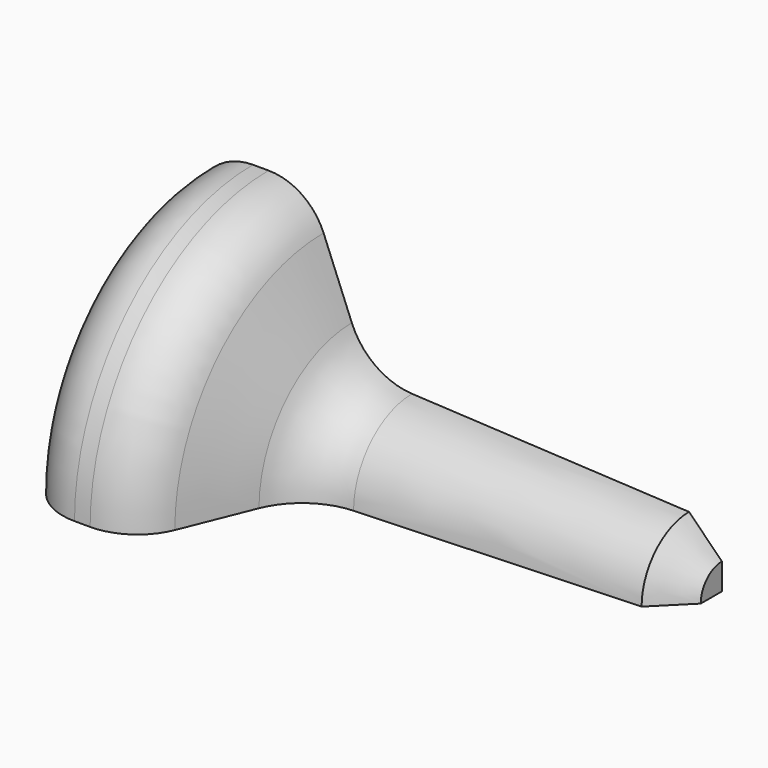
from build123d import *

# Parameters (mm, degrees)
F3_DEPTH = 100


with BuildPart() as f1:
    # F0 (on Front) → F1 (revolve)
    with BuildSketch(Plane.XZ):
        with BuildLine():
            Line((-9.5, 14.1487045371), (-9.5, 0))
            Line((-9.5, 0), (-9.5, -12.0686190203))
            Line((-9.5, -12.0686190203), (75.0892456093, -12.0686190203))
            Line((75.0892456093, -12.0686190203), (75.0892456093, -7.8348975827))
            Line((75.0892456093, -7.8348975827), (69.8257392278, -2.5713912012))
            Line((69.8257392278, -2.5713912012), (25.4796098432, -0.3512954629))
            ThreePointArc((25.4796098432, -0.3512954629), (19.6523567969, 1.6722115749), (15.8305905143, 6.5142732513))
            Line((15.8305905143, 6.5142732513), (11.3082466184, 17.7074671745))
            ThreePointArc((11.3082466184, 17.7074671745), (7.812332583, 22.0245614764), (2.5, 23.6487045371))
            Line((2.5, 23.6487045371), (0, 23.6487045371))
            ThreePointArc((0, 23.6487045371), (-6.7175144213, 20.8662189584), (-9.5, 14.1487045371))
        make_face()
    revolve(axis=Axis((32.7946228046, 0, -12.0686190203), (-1, 0, 0)))

    # F2 (on face) → F3 (cut)
    with BuildSketch(Plane(origin=(-9.5, 0, 0), x_dir=(0, -1, 0), z_dir=(-1, 0, 0))):
        with BuildLine():
            Line((43.1415624917, -12.0686190203), (26.2173235574, -12.0686190203))
            ThreePointArc((26.2173235574, -12.0686190203), (-18.538447272, -30.6070662923), (0, 14.1487045371))
            Line((0, 14.1487045371), (0, 25.8527714759))
            Line((0, 25.8527714759), (-45.2641583979, 25.8527714759))
            Line((-45.2641583979, 25.8527714759), (-45.2641583979, -49.2445603013))
            Line((-45.2641583979, -49.2445603013), (43.1415624917, -49.2445603013))
            Line((43.1415624917, -49.2445603013), (43.1415624917, -12.0686190203))
        make_face()
        with BuildLine():
            ThreePointArc((0, 14.1487045371), (-18.538447272, -30.6070662923), (26.2173235574, -12.0686190203))
            Line((26.2173235574, -12.0686190203), (0, -12.0686190203))
            Line((0, -12.0686190203), (0, 14.1487045371))
        make_face()
    extrude(amount=-F3_DEPTH, mode=Mode.SUBTRACT)


solid = f1.part
